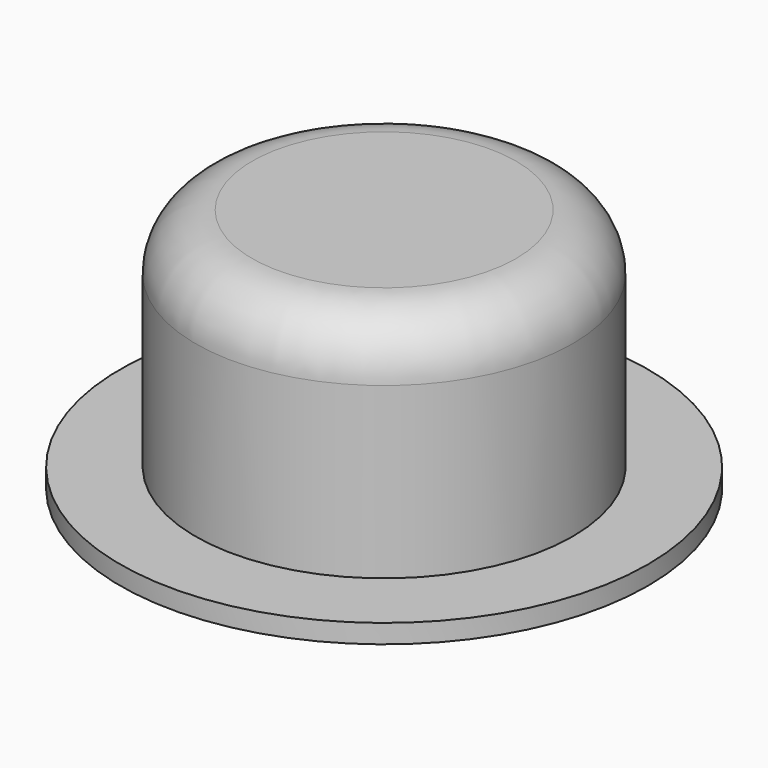
from build123d import *

# Parameters (mm, degrees)
SKETCH_R     = 7
PAD_DEPTH    = 0.5
SKETCH001_R  = 5
PAD001_DEPTH = 6
FILLET_R     = 1.5


with BuildPart() as pad:
    # Sketch → Pad (new body)
    with BuildSketch(Plane.XY):
        Circle(SKETCH_R)
    extrude(amount=PAD_DEPTH)


with BuildPart() as fillet_body:
    # Sketch001 → Pad001 (new body)
    with BuildSketch(Plane.XY.offset(0.5)):
        Circle(SKETCH001_R)
    extrude(amount=PAD001_DEPTH)

    # Fillet
    fillet_edges = [fillet_body.edges().sort_by_distance(p)[0] for p in [
        (-5, 0, 6.5),
    ]]
    fillet(fillet_edges, radius=FILLET_R)


solid = Compound([pad.part, fillet_body.part])
